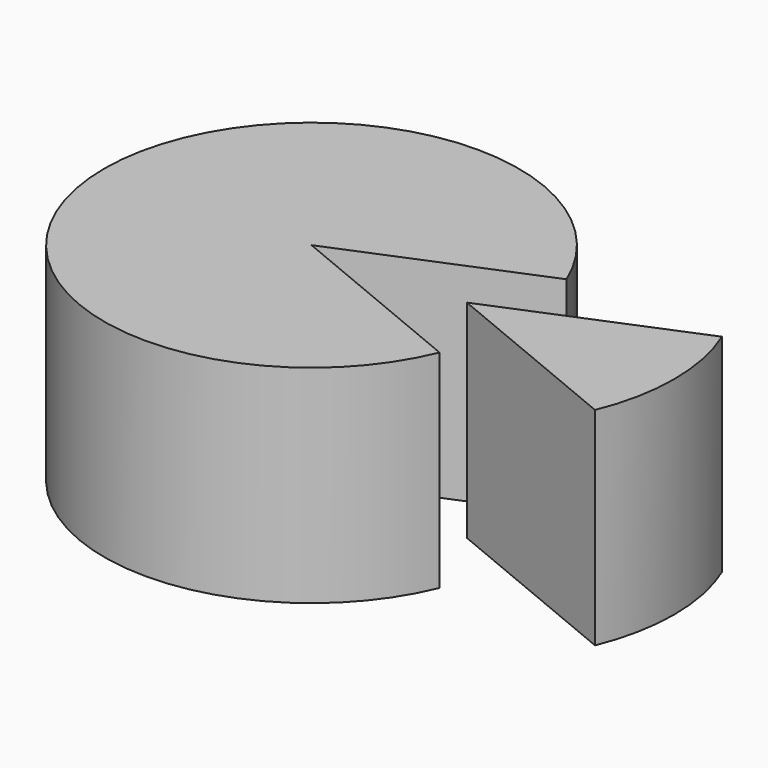
from build123d import *

# Parameters (mm, degrees)
CYLINDER_W                  = 20
CYLINDER_H                  = 20
CYLINDER_ANGLE              = 315
CYLINDER_PLACEMENT_ANGLE    = 22.5
CYLINDER001_W               = 20
CYLINDER001_H               = 20
CYLINDER001_ANGLE           = 45
CYLINDER001_PLACEMENT_ANGLE = 337.5


with BuildPart() as obj1:
    # Cylinder → Cylinder (revolve)
    with BuildSketch(Plane.XZ):
        with Locations((10, 10)):
            Rectangle(CYLINDER_W, CYLINDER_H)
    revolve(axis=Axis((0, 0, 0), (0, 0, 1)), revolution_arc=CYLINDER_ANGLE)


with BuildPart() as obj1_1:
    # Cylinder placement: moved
    add(obj1.part.rotate(Axis((0, 0, 0), (0, 0, 1)), CYLINDER_PLACEMENT_ANGLE))


with BuildPart() as obj2:
    # Cylinder001 → Cylinder001 (revolve)
    with BuildSketch(Plane.XZ):
        with Locations((10, 10)):
            Rectangle(CYLINDER001_W, CYLINDER001_H)
    revolve(axis=Axis((0, 0, 0), (0, 0, 1)), revolution_arc=CYLINDER001_ANGLE)


with BuildPart() as obj2_1:
    # Cylinder001 placement: moved
    add(obj2.part.moved(Location((15, 0, 0))).rotate(Axis((15, 0, 0), (0, 0, 1)), CYLINDER001_PLACEMENT_ANGLE))


solid = Compound([obj1_1.part, obj2_1.part])
